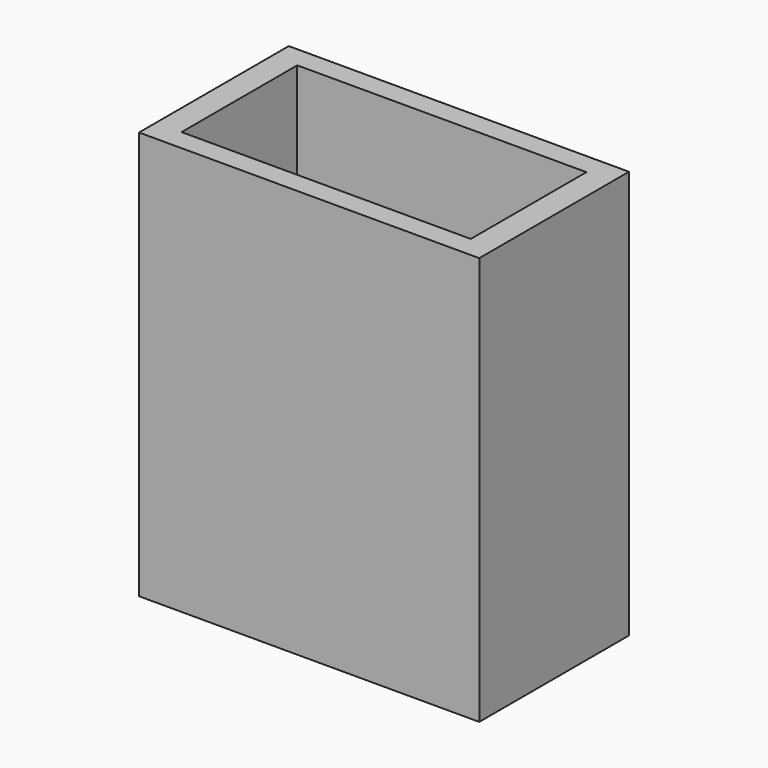
from build123d import *

# Parameters (mm, degrees)
F0_W     = 40
F0_H     = 22
F0_W_2   = 34
F0_H_2   = 4.5532393306
F1_DEPTH = 5
F2_DEPTH = 48


with BuildPart() as f1:
    # F0 (on Top) → F1 (new body)
    with BuildSketch(Plane.XY):
        Rectangle(F0_W, F0_H)
        Polygon((17, -3.9467606694), (17, -8.5), (-17, -8.5), (-17, -3.9467606694), (-17, 3.9467606694), (-17, 8.5), (17, 8.5), (17, 3.9467606694), align=None, mode=Mode.SUBTRACT)
        with Locations((0, -6.2233803347)):
            Rectangle(F0_W_2, F0_H_2)
        with Locations((0, 6.2233803347)):
            Rectangle(F0_W_2, F0_H_2)
    extrude(amount=F1_DEPTH)

    # F0 (on Top) → F2 (join)
    with BuildSketch(Plane.XY):
        Rectangle(F0_W, F0_H)
        Polygon((17, -3.9467606694), (17, -8.5), (-17, -8.5), (-17, -3.9467606694), (-17, 3.9467606694), (-17, 8.5), (17, 8.5), (17, 3.9467606694), align=None, mode=Mode.SUBTRACT)
    extrude(amount=F2_DEPTH)


solid = f1.part
